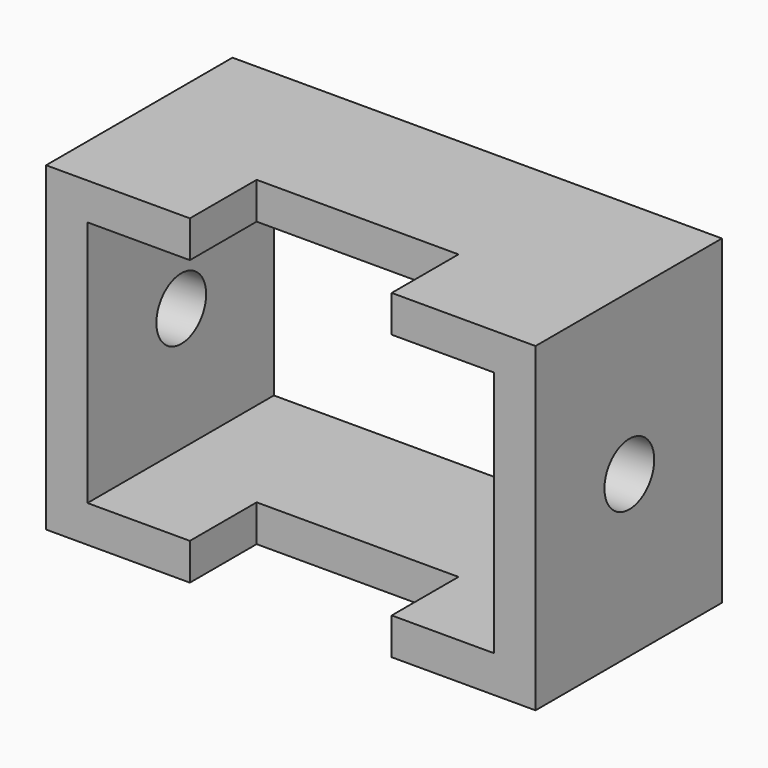
from build123d import *

# Parameters (mm, degrees)
F0_W     = 133.384466
F0_H     = 87.411344
F1_DEPTH = 63.5
F4_W     = 110.828802
F4_H     = 67.344964
F5_DEPTH = 63.501
F6_W     = 55.005372
F6_H     = 22.744318
F2_DEPTH = 87.412344
F3_R     = 8.477147
F7_DEPTH = 133.385466


with BuildPart() as f1:
    # F0 (on Front) → F1 (new body)
    with BuildSketch(Plane.XZ):
        Rectangle(F0_W, F0_H)
    extrude(amount=F1_DEPTH)

    # F4 (on face) → F5 (cut, through all)
    with BuildSketch(Plane.XZ.offset(63.5)):
        Rectangle(F4_W, F4_H)
    extrude(amount=-F5_DEPTH, mode=Mode.SUBTRACT)

    # F6 (on face) → F2 (cut, through all)
    with BuildSketch(Plane(origin=(0, 0, -43.705672), x_dir=(1, 0, 0), z_dir=(0, 0, -1))):
        with Locations((0, 74.872159)):
            Rectangle(F6_W, F6_H)
        with Locations((0, 52.127841)):
            Rectangle(F6_W, F6_H)
    extrude(amount=-F2_DEPTH, mode=Mode.SUBTRACT)

    # F3 (on face) → F7 (cut, through all)
    with BuildSketch(Plane.YZ.offset(66.692233)):
        with Locations((-31.544417, 0)):
            Circle(F3_R)
    extrude(amount=-F7_DEPTH, mode=Mode.SUBTRACT)


solid = f1.part
